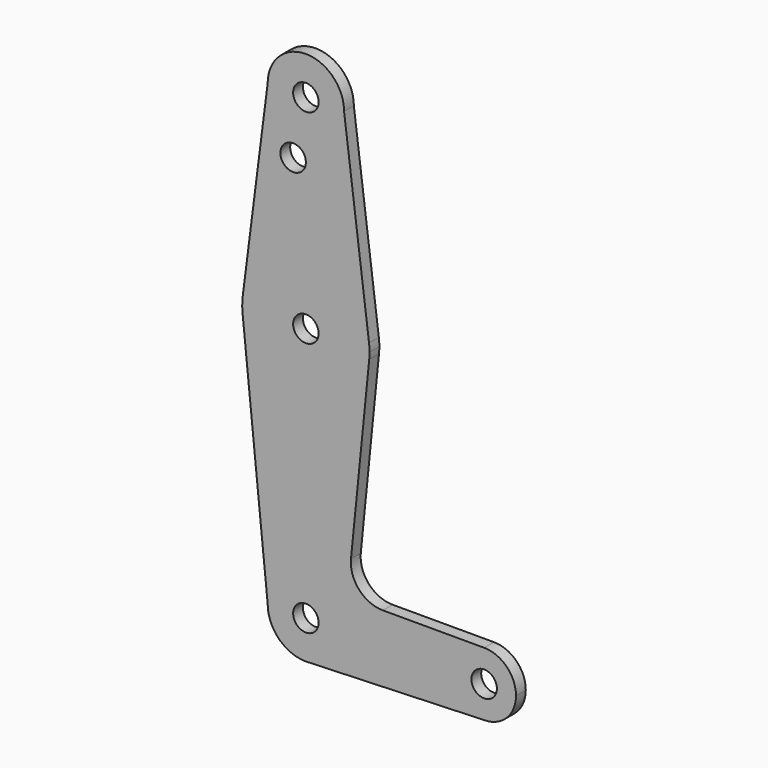
from build123d import *

# Parameters (mm, degrees)
F0_R     = 3.175
F1_DEPTH = 3.048


with BuildPart() as f1:
    # F0 (on Front) → F1 (new body)
    with BuildSketch(Plane.XZ):
        with BuildLine():
            ThreePointArc((-9.525, 114.3), (0, 104.775), (9.525, 114.3))
            ThreePointArc((9.525, 114.3), (0, 123.825), (-9.525, 114.3))
        make_face()
        with Locations((0, 114.3)):
            Circle(F0_R, mode=Mode.SUBTRACT)
        with BuildLine():
            Line((15.747457, 65.508289), (9.525, 114.3))
            ThreePointArc((9.525, 114.3), (0, 104.775), (-9.525, 114.3))
            Line((-9.525, 114.3), (-15.747457, 65.508289))
            ThreePointArc((-15.747457, 65.508289), (0, 79.375), (15.747457, 65.508289))
        make_face()
        with Locations((-3.175, 100.0252)):
            Circle(F0_R, mode=Mode.SUBTRACT)
        with BuildLine():
            ThreePointArc((15.875, 63.5), (15.843082, 64.506168), (15.747457, 65.508289))
            ThreePointArc((15.747457, 65.508289), (0, 79.375), (-15.747457, 65.508289))
            ThreePointArc((-15.747457, 65.508289), (-15.873668, 63.705667), (-15.794203, 61.90038))
            ThreePointArc((-15.794203, 61.90038), (0.006091, 47.625001), (15.795426, 61.9125))
            ThreePointArc((15.795426, 61.9125), (15.855094, 62.705253), (15.875, 63.5))
        make_face()
        with Locations((0, 63.5)):
            Circle(F0_R, mode=Mode.SUBTRACT)
        with BuildLine():
            ThreePointArc((15.795426, 61.9125), (0.006091, 47.625001), (-15.794203, 61.90038))
            Line((-15.794203, 61.90038), (-9.525, 0))
            ThreePointArc((-9.525, 0), (0, 9.525), (9.525, 0))
            ThreePointArc((9.525, 0), (6.97129, -6.490511), (0.67949, -9.500732))
            Line((0.67949, -9.500732), (44.45, -7.9375))
            ThreePointArc((44.45, -7.9375), (36.5125, 0), (44.45, 7.9375))
            Line((44.45, 7.9375), (19.160011, 7.9375))
            ThreePointArc((19.160011, 7.9375), (13.263985, 10.554544), (11.249662, 16.68272))
            Line((11.249662, 16.68272), (15.795426, 61.9125))
        make_face()
        with BuildLine():
            ThreePointArc((9.525, 0), (0, 9.525), (-9.525, 0))
            ThreePointArc((-9.525, 0), (-6.735192, -6.735192), (0, -9.525))
            Line((0, -9.525), (0.67949, -9.500732))
            ThreePointArc((0.67949, -9.500732), (6.97129, -6.490511), (9.525, 0))
        make_face()
        Circle(F0_R, mode=Mode.SUBTRACT)
        with BuildLine():
            Line((0.67949, -9.500732), (0, -9.525))
            ThreePointArc((0, -9.525), (0.339962, -9.518931), (0.67949, -9.500732))
        make_face()
        with BuildLine():
            ThreePointArc((52.3875, 0), (50.06266, 5.61266), (44.45, 7.9375))
            ThreePointArc((44.45, 7.9375), (36.5125, 0), (44.45, -7.9375))
            ThreePointArc((44.45, -7.9375), (50.06266, -5.61266), (52.3875, 0))
        make_face()
        with Locations((44.45, 0)):
            Circle(F0_R, mode=Mode.SUBTRACT)
    extrude(amount=F1_DEPTH)


solid = f1.part
